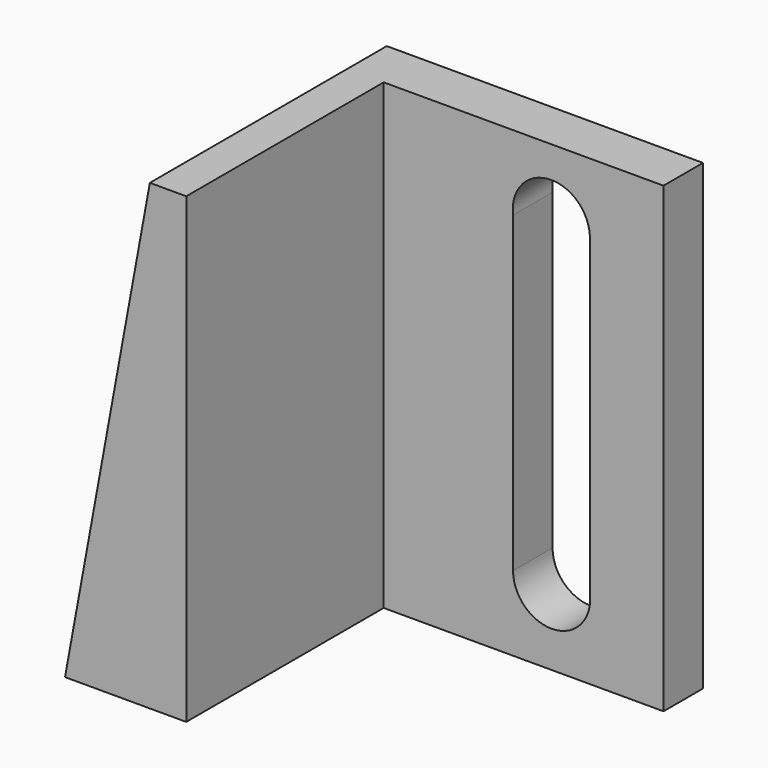
from build123d import *

# Parameters (mm, degrees)
F0_W     = 18
F0_H     = 30
F1_DEPTH = 3.2
F3_DEPTH = 16


with BuildPart() as f1:
    # F0 (on Front) → F1 (new body)
    with BuildSketch(Plane.XZ):
        with Locations((-9, 15)):
            Rectangle(F0_W, F0_H)
        with BuildLine():
            ThreePointArc((-9.752871, 25.155424), (-7.349897, 27.964146), (-4.776974, 25.31023))
            Line((-4.776974, 25.31023), (-4.752873, 4.857966))
            ThreePointArc((-4.752873, 4.857966), (-7.251398, 2.35502), (-9.752871, 4.85502))
            Line((-9.752871, 4.85502), (-9.752871, 25.155424))
        make_face(mode=Mode.SUBTRACT)
        Polygon((-18, 0), (-18, 30), (-20.5, 30), (-26, 0), align=None)
    extrude(amount=F1_DEPTH)

    # F2 (on face) → F3 (join)
    with BuildSketch(Plane.XZ.offset(3.2)):
        Polygon((-18.140052, 0), (-18.140052, 30), (-20.5, 30), (-26, 0), align=None)
    extrude(amount=F3_DEPTH)


solid = f1.part
